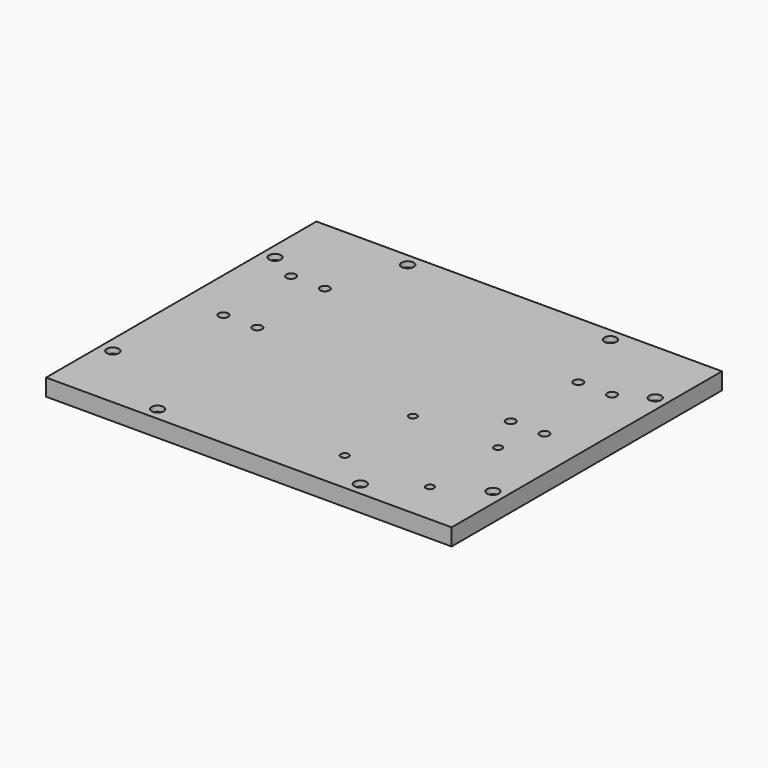
from build123d import *

# Parameters (mm, degrees)
SKETCH008_W     = 152.4
SKETCH008_H     = 127
SKETCH008_R     = 2.2606
PAD006_DEPTH    = 6.35
SKETCH097_R     = 1.778
POCKET025_DEPTH = 15.876
SKETCH098_R     = 1.5
POCKET037_DEPTH = 6.351
SKETCH114_R     = 3.683
POCKET039_DEPTH = 4.318
SKETCH115_R     = 2.794
POCKET040_DEPTH = 3.048


with BuildPart() as part:
    # Sketch008 → Pad006 (new body)
    with BuildSketch(Plane.XY):
        Rectangle(SKETCH008_W, SKETCH008_H)
        with Locations((-38.1, 58.7375)):
            Circle(SKETCH008_R, mode=Mode.SUBTRACT)
        with Locations((38.1, 58.7375)):
            Circle(SKETCH008_R, mode=Mode.SUBTRACT)
        with Locations((71.4375, 38.1)):
            Circle(SKETCH008_R, mode=Mode.SUBTRACT)
        with Locations((71.4375, -38.1)):
            Circle(SKETCH008_R, mode=Mode.SUBTRACT)
        with Locations((38.1, -58.7375)):
            Circle(SKETCH008_R, mode=Mode.SUBTRACT)
        with Locations((-38.1, -58.7375)):
            Circle(SKETCH008_R, mode=Mode.SUBTRACT)
        with Locations((-71.4375, -38.1)):
            Circle(SKETCH008_R, mode=Mode.SUBTRACT)
        with Locations((-71.4375, 38.1)):
            Circle(SKETCH008_R, mode=Mode.SUBTRACT)
    extrude(amount=PAD006_DEPTH)

    # Sketch097 (on Face2 of Pad032) → Pocket025 (cut, through all)
    with BuildSketch(Plane.YX.offset(9.525)):
        with Locations((31.75, 60.325)):
            Circle(SKETCH097_R)
        with Locations((31.75, 47.625)):
            Circle(SKETCH097_R)
        with Locations((0, 60.325)):
            Circle(SKETCH097_R)
        with Locations((0, 47.625)):
            Circle(SKETCH097_R)
        with Locations((0, -47.625)):
            Circle(SKETCH097_R)
        with Locations((31.75, -47.625)):
            Circle(SKETCH097_R)
        with Locations((0, -60.325)):
            Circle(SKETCH097_R)
        with Locations((31.75, -60.325)):
            Circle(SKETCH097_R)
    extrude(amount=-POCKET025_DEPTH, mode=Mode.SUBTRACT)

    # Sketch098 (on Face5 of Pocket025) → Pocket037 (cut, through all)
    with BuildSketch(Plane.XY.offset(6.35)):
        with Locations((23.193423, -15.40673)):
            Circle(SKETCH098_R)
        with Locations((55.193423, -15.40673)):
            Circle(SKETCH098_R)
        with Locations((55.193423, -47.40673)):
            Circle(SKETCH098_R)
        with Locations((23.193423, -47.40673)):
            Circle(SKETCH098_R)
    extrude(amount=-POCKET037_DEPTH, mode=Mode.SUBTRACT)

    # Sketch114 → Pocket039 (cut)
    with BuildSketch(Plane.XY):
        with Locations((-38.1, 58.7375)):
            Circle(SKETCH114_R)
        with Locations((38.1, 58.7375)):
            Circle(SKETCH114_R)
        with Locations((71.4375, 38.1)):
            Circle(SKETCH114_R)
        with Locations((71.4375, -38.1)):
            Circle(SKETCH114_R)
        with Locations((38.1, -58.7375)):
            Circle(SKETCH114_R)
        with Locations((-38.1, -58.7375)):
            Circle(SKETCH114_R)
        with Locations((-71.4375, -38.1)):
            Circle(SKETCH114_R)
        with Locations((-71.4375, 38.1)):
            Circle(SKETCH114_R)
    extrude(amount=POCKET039_DEPTH, mode=Mode.SUBTRACT)

    # Sketch115 (on Face4 of Pocket039) → Pocket040 (cut)
    with BuildSketch(Plane.YX):
        with Locations((31.75, 60.325)):
            Circle(SKETCH115_R)
        with Locations((31.75, 47.625)):
            Circle(SKETCH115_R)
        with Locations((0, 60.325)):
            Circle(SKETCH115_R)
        with Locations((0, 47.625)):
            Circle(SKETCH115_R)
        with Locations((0, -47.625)):
            Circle(SKETCH115_R)
        with Locations((31.75, -47.625)):
            Circle(SKETCH115_R)
        with Locations((0, -60.325)):
            Circle(SKETCH115_R)
        with Locations((31.75, -60.325)):
            Circle(SKETCH115_R)
    extrude(amount=-POCKET040_DEPTH, mode=Mode.SUBTRACT)


with BuildPart() as part_1:
    # Body006 placement: moved
    add(part.part.moved(Location((-66.7766, 34.5694, -25.6794))))


solid = part_1.part
